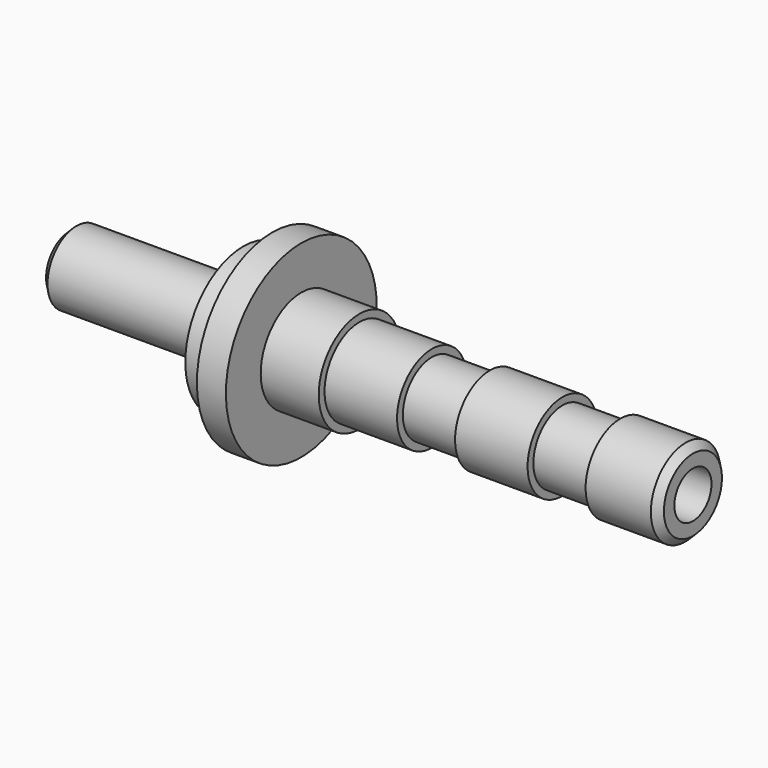
from build123d import *

# Parameters (mm, degrees)
F2_R     = 1.6
F3_DEPTH = 43.001
F4_SIZE  = 0.5


with BuildPart() as f1:
    # F0 (on Front) → F1 (revolve)
    with BuildSketch(Plane.XZ):
        Polygon((0, 2.5), (0, 0), (43, 0), (43, 3), (38, 3), (38, 2.5), (34, 2.5), (34, 3), (29, 3), (29, 2.5), (25, 2.5), (25, 3), (20, 3), (20, 3.5), (16, 3.5), (16, 6.5), (14, 6.5), (14, 5), (12, 5), (12, 2.5), align=None)
    revolve(axis=Axis((-2.710388, 0, 0), (-1, 0, 0)))

    # F2 (on face) → F3 (cut, through all)
    with BuildSketch(Plane.YZ.offset(43)):
        Circle(F2_R)
    extrude(amount=-F3_DEPTH, mode=Mode.SUBTRACT)

    # F4
    f4_edges = [f1.edges().sort_by_distance(p)[0] for p in [
        (43, 0, -3),
        (0, 0, -2.5),
    ]]
    chamfer(f4_edges, length=F4_SIZE)


solid = f1.part
